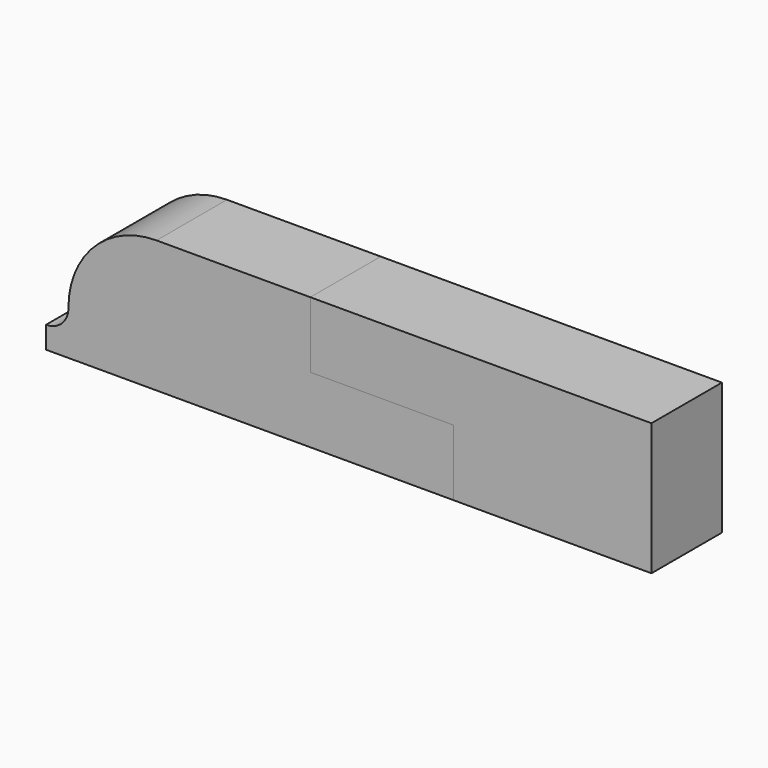
from build123d import *

# Parameters (mm, degrees)
F1_DEPTH = 25.4
F2_DEPTH = 25.4


with BuildPart() as f1:
    # F0 (on Front) → F1 (new body)
    with BuildSketch(Plane.XZ):
        with BuildLine():
            Line((-44.656377, 0), (0, 0))
            Line((0, 0), (64.563632, 0))
            Line((64.563632, 0), (64.563632, 19.05))
            Line((64.563632, 19.05), (23.288625, 19.05))
            Line((23.288625, 19.05), (23.288625, 38.1))
            Line((23.288625, 38.1), (-21.066124, 38.1))
            ThreePointArc((-21.066124, 38.1), (-39.026636, 30.660512), (-46.466124, 12.7))
            Line((-46.466124, 12.7), (-46.466124, 12.68484))
            ThreePointArc((-46.466124, 12.68484), (-48.325996, 8.194712), (-52.816124, 6.33484))
            Line((-52.816124, 6.33484), (-52.911375, 6.33484))
            Line((-52.911375, 6.33484), (-52.911375, -0.01516))
            Line((-52.911375, -0.01516), (-44.656377, -0.01516))
            Line((-44.656377, -0.01516), (-44.656377, 0))
        make_face()
    extrude(amount=F1_DEPTH)


with BuildPart() as f2:
    # F0 (on Front) → F2 (new body)
    with BuildSketch(Plane.XZ):
        Polygon((64.563632, 19.05), (64.563632, 0), (121.681886, 0), (121.681886, 38.1), (23.288625, 38.1), (23.288625, 19.05), align=None)
    extrude(amount=F2_DEPTH)


solid = Compound([f1.part, f2.part])
